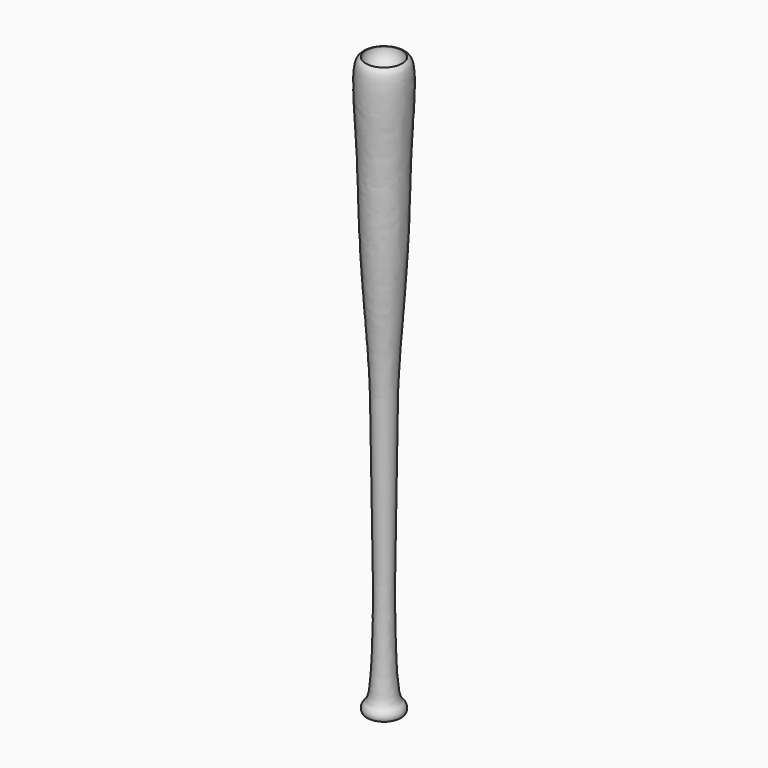
from build123d import *

# Parameters (mm, degrees)
F3_R     = 25.4
F4_DEPTH = 25.4
F5_R     = 20.32
F7_W     = 51.1629804969
F7_H     = 75.7894515991
F8_DEPTH = 12.7


with BuildPart() as f1:
    # F0 (on Front) → F1 (revolve)
    with BuildSketch(Plane.XZ):
        with BuildLine():
            Line((0, 812.8), (0, 0))
            add(Edge.make_bspline(
                [(0, 0), (21.3415997865, 0), (24.8112814278, 1.7729454521), (26.0253571333, 9.0219476598), (22.7955327501, 14.7947636705), (15.3244942212, 18.8923079483), (11.7026223253, 110.6019620057), (12.4584850099, 201.6190880039), (14.6889835154, 305.1860416359), (14.5105719595, 406.4697022891), (22.5264751993, 507.5432214393), (28.7311686632, 611.316633791), (29.2624138251, 703.3495223412), (38.0861224254, 814.2472296873), (23.8750420309, 812.8987947466), (0, 812.8)],
                knots=[0, 0, 0, 0, 0.0518249728, 0.0739912649, 0.0989728287, 0.1245250035, 0.218260884, 0.3220982408, 0.4259419346, 0.5297856285, 0.6337242407, 0.7376393249, 0.8415020233, 0.9409682668, 1, 1, 1, 1], degree=3))
        make_face()
    revolve(axis=Axis((0, 0, 406.4), (0, 0, -1)))

    # F3 (on offset) → F4 (cut)
    with BuildSketch(Plane.XY.offset(815.34)):
        Circle(F3_R)
    extrude(amount=-F4_DEPTH, mode=Mode.SUBTRACT)

    # F5
    f5_edges = [f1.edges().sort_by_distance(p)[0] for p in [
        (-25.4, 0, 789.94),
    ]]
    fillet(f5_edges, radius=F5_R)

    # F7 (on face) → F8 (join)
    with BuildSketch(Plane(origin=(0, 0, 0), x_dir=(0, -1, 0), z_dir=(-1, 0, 0))):
        with Locations((0, 689.8341178894)):
            Rectangle(F7_W, F7_H)
    extrude(amount=F8_DEPTH)


solid = f1.part
